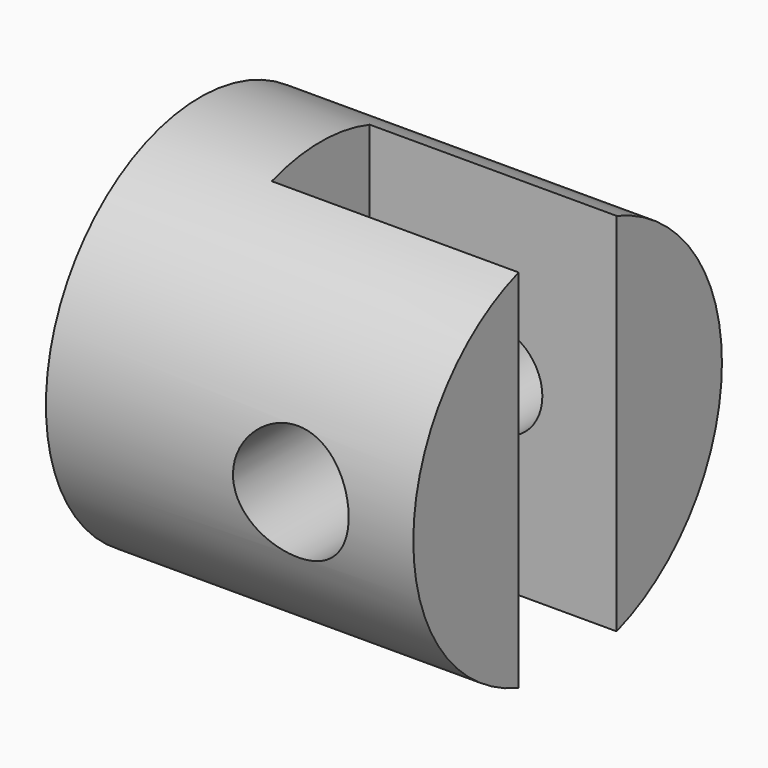
from build123d import *

# Parameters (mm, degrees)
F0_R     = 5
F1_DEPTH = 4.7625
F3_D     = 1.9939
F3_DEPTH = 2.9416666667
F3_TIP   = 0.5990279941
F4_W     = 12.8
F4_H     = 3.175
F5_DEPTH = 12.5
F7_D     = 2.5
F7_DEPTH = 3.4135
F8_R     = 1.5
F9_DEPTH = 3.4135001


with BuildPart() as f1:
    # F0 (on Right) → F1 (new body, symmetric)
    with BuildSketch(Plane.YZ):
        Circle(F0_R)
    extrude(amount=F1_DEPTH, both=True)

    # F3
    with Locations(Plane(origin=(-4.7625, 0, 0), x_dir=(0, -1, 0), z_dir=(-1, 0, 0))):
        with Locations((0, 0)):
            Hole(F3_D / 2, depth=F3_DEPTH)
            with Locations((0, 0, -(F3_DEPTH + F3_TIP / 2))):  # 118° drill point
                Cone(0, F3_D / 2, F3_TIP, mode=Mode.SUBTRACT)

    # F4 (on Top) → F5 (cut, symmetric)
    with BuildSketch(Plane.XY):
        with Locations((4.7625, 0)):
            Rectangle(F4_W, F4_H)
    extrude(amount=F5_DEPTH, both=True, mode=Mode.SUBTRACT)

    # F7 (through all, one way)
    with BuildSketch(Plane.XZ.offset(-1.5875)):
        with Locations((1.5875, 0)):
            Circle(F7_D / 2)
    extrude(amount=-F7_DEPTH, mode=Mode.SUBTRACT)

    # F8 (on face) → F9 (cut, through all)
    with BuildSketch(Plane(origin=(0, -1.5875, 0), x_dir=(-1, 0, 0), z_dir=(0, 1, 0))):
        with Locations((-1.5875, 0)):
            Circle(F8_R)
    extrude(amount=-F9_DEPTH, mode=Mode.SUBTRACT)


solid = f1.part
